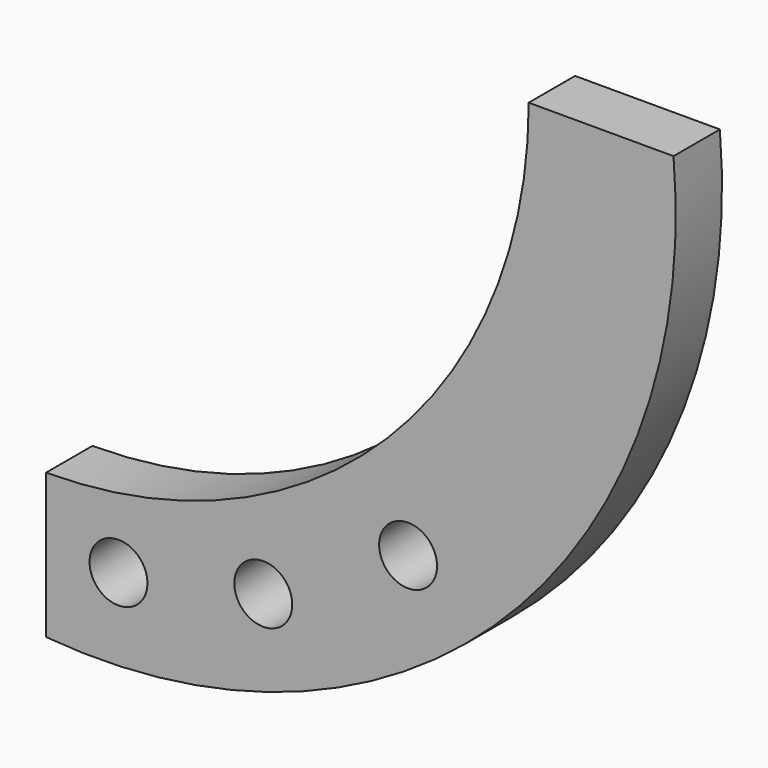
from build123d import *

# Parameters (mm, degrees)
F1_DEPTH = 12
F2_R     = 6
F3_DEPTH = 25


with BuildPart() as f1:
    # F0 (on Front) → F1 (new body)
    with BuildSketch(Plane.XZ):
        with BuildLine():
            Line((0, -100), (0, -130))
            ThreePointArc((0, -130), (95.309253, -95.309253), (130, 0))
            Line((130, 0), (100, 0))
            ThreePointArc((100, 0), (70.710678, -70.710678), (0, -100))
        make_face()
    extrude(amount=F1_DEPTH)

    # F2 (on face) → F3 (cut)
    with BuildSketch(Plane.XZ.offset(12)):
        with Locations((15, -113.356177)):
            Circle(F2_R)
        with Locations((45, -107.491188)):
            Circle(F2_R)
        with Locations((75, -90.725542)):
            Circle(F2_R)
    extrude(amount=-F3_DEPTH, mode=Mode.SUBTRACT)


solid = f1.part
